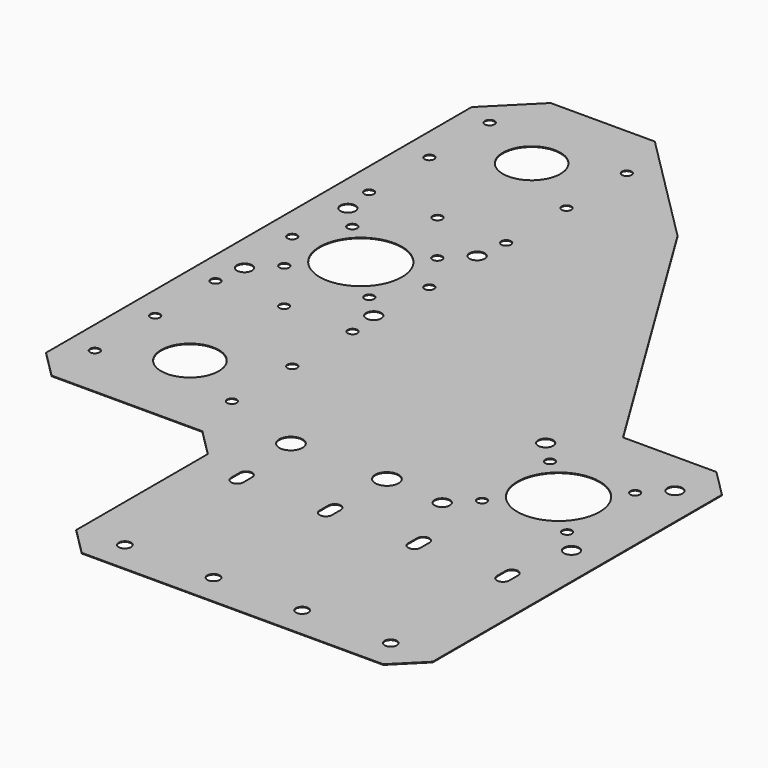
from build123d import *

# Parameters (mm, degrees)
F0_R     = 2.25
F0_R_2   = 1.75
F0_R_3   = 10.5
F0_R_4   = 4.25
F0_R_5   = 2.75
F0_R_6   = 15
F1_DEPTH = 0.254


with BuildPart() as f1:
    # F0 (on Top) → F1 (new body)
    with BuildSketch(Plane.XY):
        Polygon((-17.5, -150), (92.5, -150), (102.5, -140), (102.5, -8.17), (92.5, 1.83), (58.4225, 1.83), (-7.088235, 108.588235), (-48.5, 150), (-86.5, 150), (-102.5, 134), (-102.5, -60), (-92.5, -70), (-37.5, -70), (-27.5, -80), (-27.5, -140), align=None)
        with Locations((-10.96, -138.5)):
            Circle(F0_R, mode=Mode.SUBTRACT)
        with BuildLine():
            Line((-13.21, -87.3), (-13.21, -83.3))
            ThreePointArc((-13.21, -83.3), (-10.96, -81.05), (-8.71, -83.3))
            Line((-8.71, -83.3), (-8.71, -87.3))
            ThreePointArc((-8.71, -87.3), (-10.96, -89.55), (-13.21, -87.3))
        make_face(mode=Mode.SUBTRACT)
        with Locations((-92.5, -50.28)):
            Circle(F0_R_2, mode=Mode.SUBTRACT)
        with Locations((-67.5, -38.17)):
            Circle(F0_R_3, mode=Mode.SUBTRACT)
        with Locations((-92.5, -22.78)):
            Circle(F0_R_2, mode=Mode.SUBTRACT)
        with Locations((-42.5, -50.28)):
            Circle(F0_R_2, mode=Mode.SUBTRACT)
        with Locations((-13.07, -60.17)):
            Circle(F0_R_4, mode=Mode.SUBTRACT)
        with Locations((-42.5, -22.78)):
            Circle(F0_R_2, mode=Mode.SUBTRACT)
        with Locations((21.36, -138.5)):
            Circle(F0_R, mode=Mode.SUBTRACT)
        with BuildLine():
            Line((19.11, -87.3), (19.11, -83.3))
            ThreePointArc((19.11, -83.3), (21.36, -81.05), (23.61, -83.3))
            Line((23.61, -83.3), (23.61, -87.3))
            ThreePointArc((23.61, -87.3), (21.36, -89.55), (19.11, -87.3))
        make_face(mode=Mode.SUBTRACT)
        with Locations((53.68, -138.5)):
            Circle(F0_R, mode=Mode.SUBTRACT)
        with Locations((86, -138.5)):
            Circle(F0_R, mode=Mode.SUBTRACT)
        with BuildLine():
            Line((51.43, -87.3), (51.43, -83.3))
            ThreePointArc((51.43, -83.3), (53.68, -81.05), (55.93, -83.3))
            Line((55.93, -83.3), (55.93, -87.3))
            ThreePointArc((55.93, -87.3), (53.68, -89.55), (51.43, -87.3))
        make_face(mode=Mode.SUBTRACT)
        with BuildLine():
            Line((83.75, -87.3), (83.75, -83.3))
            ThreePointArc((83.75, -83.3), (86, -81.05), (88.25, -83.3))
            Line((88.25, -83.3), (88.25, -87.3))
            ThreePointArc((88.25, -87.3), (86, -89.55), (83.75, -87.3))
        make_face(mode=Mode.SUBTRACT)
        with Locations((21.93, -60.17)):
            Circle(F0_R_4, mode=Mode.SUBTRACT)
        with Locations((43.36, -61.74)):
            Circle(F0_R_5, mode=Mode.SUBTRACT)
        with Locations((43.36, -14.6)):
            Circle(F0_R_5, mode=Mode.SUBTRACT)
        with Locations((51.43, -53.67)):
            Circle(F0_R_2, mode=Mode.SUBTRACT)
        with Locations((66.93, -38.17)):
            Circle(F0_R_6, mode=Mode.SUBTRACT)
        with Locations((90.5, -61.74)):
            Circle(F0_R_5, mode=Mode.SUBTRACT)
        with Locations((82.43, -53.67)):
            Circle(F0_R_2, mode=Mode.SUBTRACT)
        with Locations((51.43, -22.67)):
            Circle(F0_R_2, mode=Mode.SUBTRACT)
        with Locations((82.43, -22.67)):
            Circle(F0_R_2, mode=Mode.SUBTRACT)
        with Locations((90.5, -14.6)):
            Circle(F0_R_5, mode=Mode.SUBTRACT)
        with Locations((-92.5, 4.72)):
            Circle(F0_R_2, mode=Mode.SUBTRACT)
        with Locations((-91.07, 16.15)):
            Circle(F0_R_5, mode=Mode.SUBTRACT)
        with Locations((-83, 24.22)):
            Circle(F0_R_2, mode=Mode.SUBTRACT)
        with Locations((-67.5, 4.72)):
            Circle(F0_R_2, mode=Mode.SUBTRACT)
        with Locations((-52, 24.22)):
            Circle(F0_R_2, mode=Mode.SUBTRACT)
        with Locations((-92.5, 39.72)):
            Circle(F0_R_2, mode=Mode.SUBTRACT)
        with Locations((-83, 55.22)):
            Circle(F0_R_2, mode=Mode.SUBTRACT)
        with Locations((-91.07, 63.29)):
            Circle(F0_R_5, mode=Mode.SUBTRACT)
        with Locations((-92.5, 74.72)):
            Circle(F0_R_2, mode=Mode.SUBTRACT)
        with Locations((-67.5, 39.72)):
            Circle(F0_R_6, mode=Mode.SUBTRACT)
        with Locations((-52, 55.22)):
            Circle(F0_R_2, mode=Mode.SUBTRACT)
        with Locations((-67.5, 74.72)):
            Circle(F0_R_2, mode=Mode.SUBTRACT)
        with Locations((-42.5, 4.72)):
            Circle(F0_R_2, mode=Mode.SUBTRACT)
        with Locations((-43.93, 16.15)):
            Circle(F0_R_5, mode=Mode.SUBTRACT)
        with Locations((-42.5, 39.72)):
            Circle(F0_R_2, mode=Mode.SUBTRACT)
        with Locations((-43.93, 63.29)):
            Circle(F0_R_5, mode=Mode.SUBTRACT)
        with Locations((-42.5, 74.72)):
            Circle(F0_R_2, mode=Mode.SUBTRACT)
        with Locations((-92.5, 102.22)):
            Circle(F0_R_2, mode=Mode.SUBTRACT)
        with Locations((-92.5, 129.72)):
            Circle(F0_R_2, mode=Mode.SUBTRACT)
        with Locations((-67.5, 117.61)):
            Circle(F0_R_3, mode=Mode.SUBTRACT)
        with Locations((-42.5, 102.22)):
            Circle(F0_R_2, mode=Mode.SUBTRACT)
        with Locations((-42.5, 129.72)):
            Circle(F0_R_2, mode=Mode.SUBTRACT)
    extrude(amount=F1_DEPTH)


solid = f1.part
